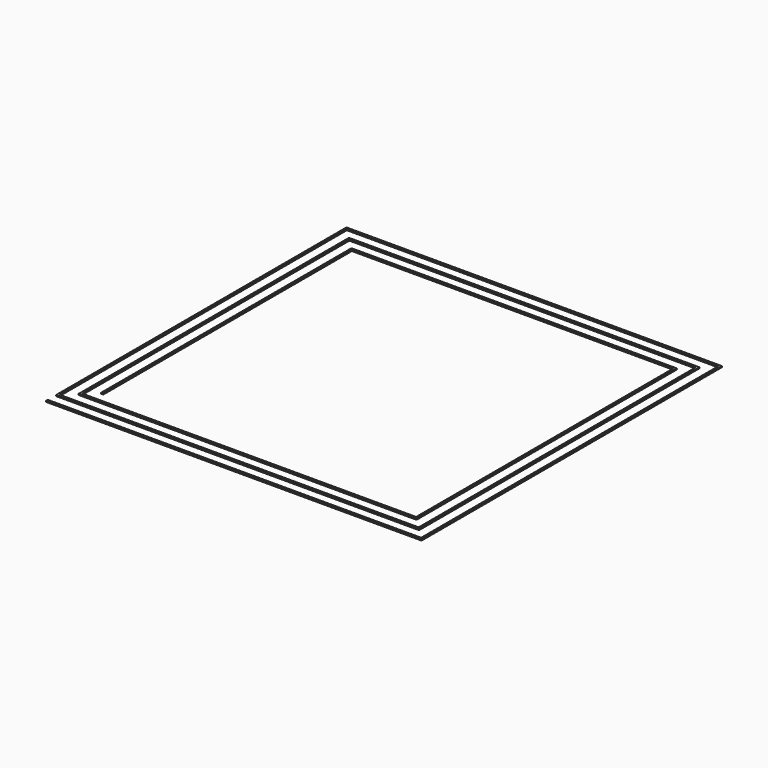
from build123d import *

# Parameters (mm, degrees)
F1_DEPTH = 0.5


with BuildPart() as f1:
    # F0 (on Top) → F1 (new body)
    with BuildSketch(Plane.XY):
        Polygon((-90, -89), (-90, -90), (89, -90), (90, -90), (90, -89), (90, 89), (90, 90), (89, 90), (-89, 90), (-90, 90), (-90, 89), (-90, -83), (-90, -84), (-89, -84), (83, -84), (84, -84), (84, -83), (84, 83), (84, 84), (83, 84), (-83, 84), (-84, 84), (-84, 83), (-84, -77), (-84, -78), (-83, -78), (77, -78), (78, -78), (78, -77), (78, 77), (78, 78), (77, 78), (-77, 78), (-78, 78), (-78, 77), (-78, -72), (-77, -72), (-77, 77), (77, 77), (77, -77), (-83, -77), (-83, 83), (83, 83), (83, -83), (-89, -83), (-89, 89), (89, 89), (89, -89), align=None)
    extrude(amount=F1_DEPTH)


solid = f1.part
